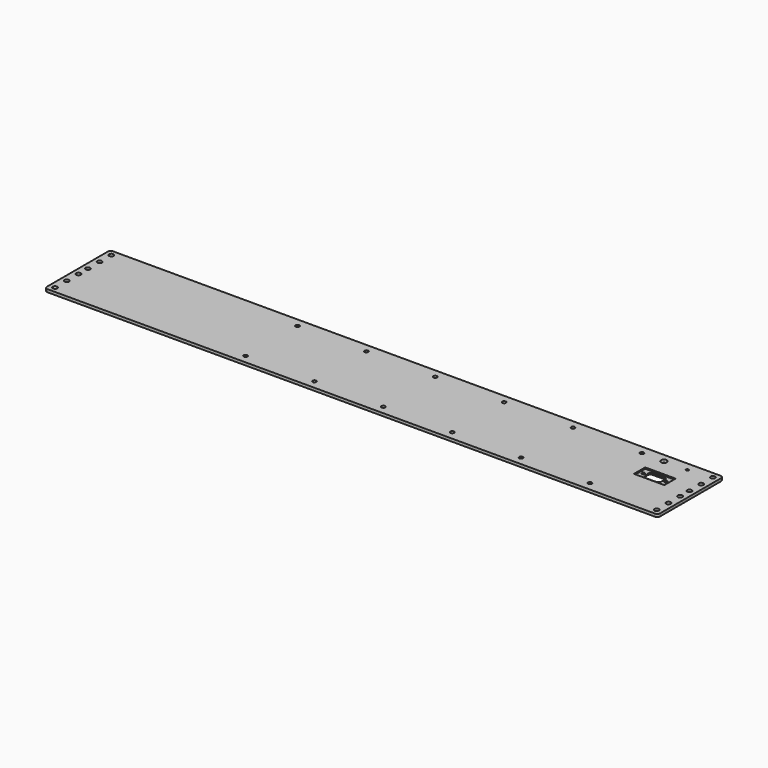
from build123d import *

# Parameters (mm, degrees)
F0_R     = 2.4892
F0_R_2   = 2.0193
F0_R_3   = 3.175
F0_R_4   = 1.397
F2_DEPTH = 3
F1_R     = 1.5875
F3_DEPTH = 3.001
F4_W     = 33.02
F4_H     = 15.24
F5_DEPTH = 1.41224


with BuildPart() as f2:
    # F0 (on Top) → F2 (new body)
    with BuildSketch(Plane.XY):
        with BuildLine():
            Line((329.40625, 44.45), (-329.40625, 44.45))
            ThreePointArc((-329.40625, 44.45), (-331.651314, 43.520064), (-332.58125, 41.275))
            Line((-332.58125, 41.275), (-332.58125, -41.275))
            ThreePointArc((-332.58125, -41.275), (-331.651314, -43.520064), (-329.40625, -44.45))
            Line((-329.40625, -44.45), (329.40625, -44.45))
            ThreePointArc((329.40625, -44.45), (331.651314, -43.520064), (332.58125, -41.275))
            Line((332.58125, -41.275), (332.58125, 41.275))
            ThreePointArc((332.58125, 41.275), (331.651314, 43.520064), (329.40625, 44.45))
        make_face()
        with Locations((-326.23125, -38.1)):
            Circle(F0_R, mode=Mode.SUBTRACT)
        with Locations((-121.96875, -35.2)):
            Circle(F0_R_2, mode=Mode.SUBTRACT)
        with Locations((-47.26875, -35.2)):
            Circle(F0_R_2, mode=Mode.SUBTRACT)
        with Locations((-326.23125, -22.225)):
            Circle(F0_R, mode=Mode.SUBTRACT)
        with Locations((-326.23125, -6.35)):
            Circle(F0_R, mode=Mode.SUBTRACT)
        with Locations((27.43125, -35.2)):
            Circle(F0_R_2, mode=Mode.SUBTRACT)
        with Locations((102.13125, -35.2)):
            Circle(F0_R_2, mode=Mode.SUBTRACT)
        with Locations((176.83125, -35.2)):
            Circle(F0_R_2, mode=Mode.SUBTRACT)
        with Locations((251.53125, -35.2)):
            Circle(F0_R_2, mode=Mode.SUBTRACT)
        with Locations((326.23125, -38.1)):
            Circle(F0_R, mode=Mode.SUBTRACT)
        with Locations((326.23125, -22.225)):
            Circle(F0_R, mode=Mode.SUBTRACT)
        with Locations((326.23125, -6.35)):
            Circle(F0_R, mode=Mode.SUBTRACT)
        with Locations((-326.23125, 6.35)):
            Circle(F0_R, mode=Mode.SUBTRACT)
        with Locations((-326.23125, 22.225)):
            Circle(F0_R, mode=Mode.SUBTRACT)
        with Locations((-326.23125, 38.1)):
            Circle(F0_R, mode=Mode.SUBTRACT)
        with Locations((-121.96875, 35.2)):
            Circle(F0_R_2, mode=Mode.SUBTRACT)
        with Locations((-47.26875, 35.2)):
            Circle(F0_R_2, mode=Mode.SUBTRACT)
        with Locations((326.23125, 6.35)):
            Circle(F0_R, mode=Mode.SUBTRACT)
        with Locations((27.43125, 35.2)):
            Circle(F0_R_2, mode=Mode.SUBTRACT)
        with Locations((102.13125, 35.2)):
            Circle(F0_R_2, mode=Mode.SUBTRACT)
        with Locations((326.23125, 22.225)):
            Circle(F0_R, mode=Mode.SUBTRACT)
        with Locations((176.83125, 35.2)):
            Circle(F0_R_2, mode=Mode.SUBTRACT)
        with Locations((251.53125, 35.2)):
            Circle(F0_R_2, mode=Mode.SUBTRACT)
        with Locations((275.43125, 35.2)):
            Circle(F0_R_3, mode=Mode.SUBTRACT)
        with Locations((300.83125, 35.2)):
            Circle(F0_R_4, mode=Mode.SUBTRACT)
        with Locations((326.23125, 38.1)):
            Circle(F0_R, mode=Mode.SUBTRACT)
    extrude(amount=F2_DEPTH)

    # F1 (on face) → F3 (cut, through all)
    with BuildSketch(Plane.XY):
        with BuildLine():
            Line((293.120775, 14.162294), (279.987659, 14.162294))
            ThreePointArc((279.987659, 14.162294), (277.780685, 13.133165), (277.150428, 10.781014))
            Line((277.150428, 10.781014), (277.985866, 6.043014))
            ThreePointArc((277.985866, 6.043014), (278.971226, 4.33632), (280.823097, 3.662294))
            Line((280.823097, 3.662294), (292.285338, 3.662294))
            ThreePointArc((292.285338, 3.662294), (294.137209, 4.33632), (295.122569, 6.043014))
            Line((295.122569, 6.043014), (295.958006, 10.781014))
            ThreePointArc((295.958006, 10.781014), (295.327749, 13.133165), (293.120775, 14.162294))
        make_face()
        with Locations((274.054217, 8.912294)):
            Circle(F1_R)
        with Locations((299.054217, 8.912294)):
            Circle(F1_R)
    extrude(amount=F3_DEPTH, mode=Mode.SUBTRACT)

    # F4 (on face) → F5 (cut)
    with BuildSketch(Plane.XY.offset(3)):
        with Locations((286.554217, 8.912294)):
            Rectangle(F4_W, F4_H)
    extrude(amount=-F5_DEPTH, mode=Mode.SUBTRACT)


solid = f2.part
